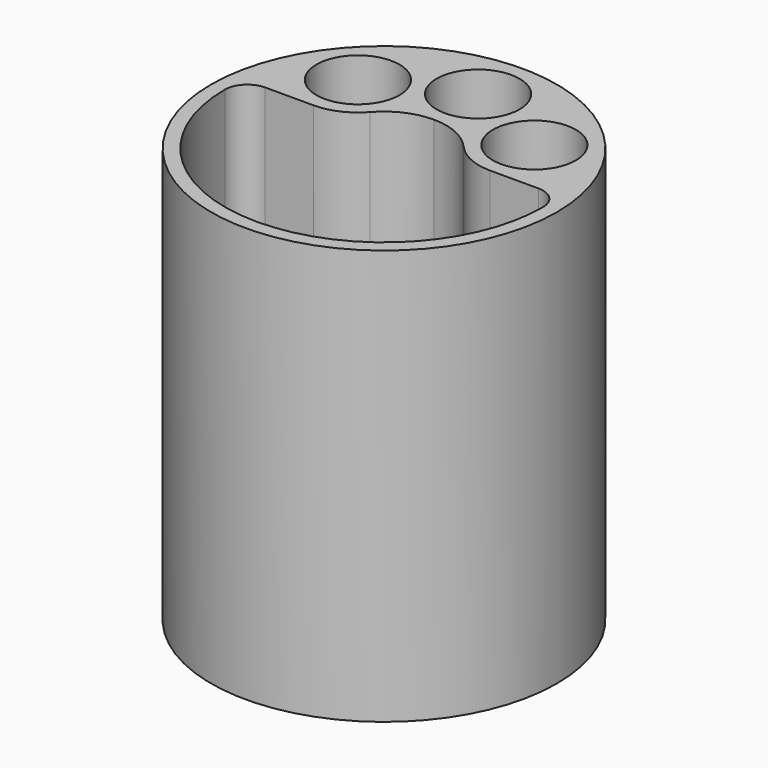
from build123d import *

# Parameters (mm, degrees)
SKETCH_R      = 25
PAD_DEPTH     = 2
SKETCH002_R   = 25
SKETCH002_R_2 = 6
PAD001_DEPTH  = 58


with BuildPart() as part:
    # Sketch → Pad (new body)
    with BuildSketch(Plane.XY):
        Circle(SKETCH_R)
    extrude(amount=PAD_DEPTH)

    # Sketch002 (on Face3 of Pad) → Pad001 (join)
    with BuildSketch(Plane.XY.offset(2)):
        Circle(SKETCH002_R)
        with Locations((0, 17)):
            Circle(SKETCH002_R_2, mode=Mode.SUBTRACT)
        with Locations((-12.758063, 11.235294)):
            Circle(SKETCH002_R_2, mode=Mode.SUBTRACT)
        with Locations((12.758063, 11.235294)):
            Circle(SKETCH002_R_2, mode=Mode.SUBTRACT)
        with BuildLine():
            ThreePointArc((-23, 0), (0, -23), (23, 0))
            ThreePointArc((23, 0), (22.052404, 2.287698), (19.764706, 3.235294))
            Line((19.764706, 3.235294), (12.758063, 3.235294))
            ThreePointArc((6.754269, 5.948097), (9.463945, 3.944973), (12.758063, 3.235294))
            ThreePointArc((6.754269, 5.948097), (3.705882, 8.201612), (0, 9))
            ThreePointArc((0, 9), (-3.705882, 8.201612), (-6.754269, 5.948097))
            ThreePointArc((-12.758063, 3.235294), (-9.463945, 3.944973), (-6.754269, 5.948097))
            Line((-19.764706, 3.235294), (-12.758063, 3.235294))
            ThreePointArc((-19.764706, 3.235294), (-22.052404, 2.287698), (-23, 0))
        make_face(mode=Mode.SUBTRACT)
    extrude(amount=PAD001_DEPTH)


solid = part.part
